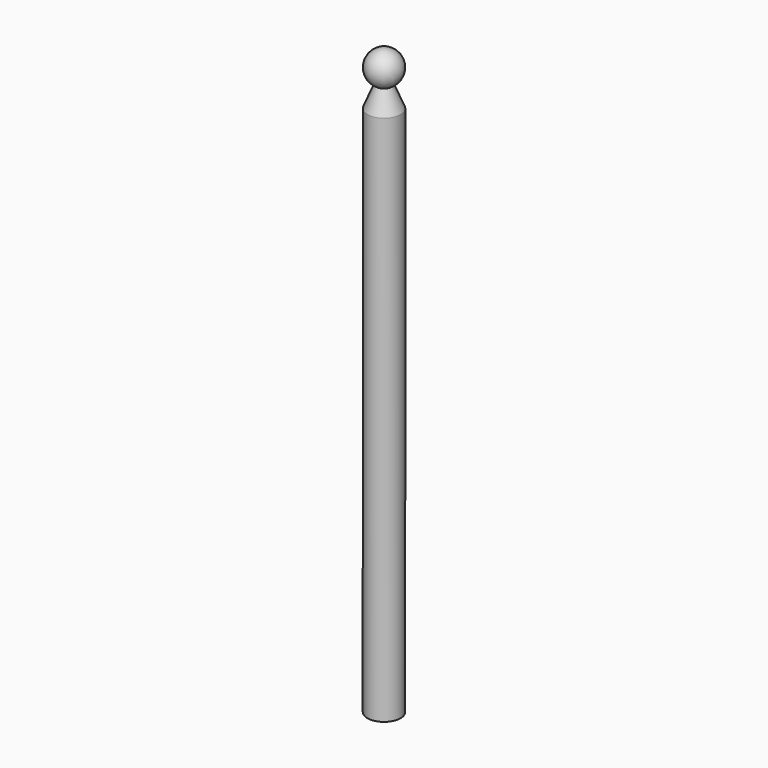
from build123d import *

# Parameters (mm, degrees)
F0_R     = 3.175
F1_DEPTH = 101.6


with BuildPart() as f1:
    # F0 (on Top) → F1 (new body)
    with BuildSketch(Plane.XY):
        Circle(F0_R)
    extrude(amount=F1_DEPTH)

    # F2 (on Front) → F3 (revolve)
    with BuildSketch(Plane.XZ):
        with BuildLine():
            ThreePointArc((-1.486996, 105.699394), (-0.766138, 105.423473), (0, 105.329651))
            Line((0, 105.329651), (0, 108.504651))
            Line((0, 108.504651), (0, 111.679651))
            ThreePointArc((0, 111.679651), (-3.081178, 109.270788), (-1.486996, 105.699394))
        make_face()
        with BuildLine():
            Line((-3.175, 101.6), (0, 101.6))
            Line((0, 101.6), (0, 105.329651))
            ThreePointArc((0, 105.329651), (-0.766138, 105.423473), (-1.486996, 105.699394))
            Line((-1.486996, 105.699394), (-3.175, 101.6))
        make_face()
    revolve(axis=Axis((0, 0, 105.052325), (0, 0, 1)))


solid = f1.part
